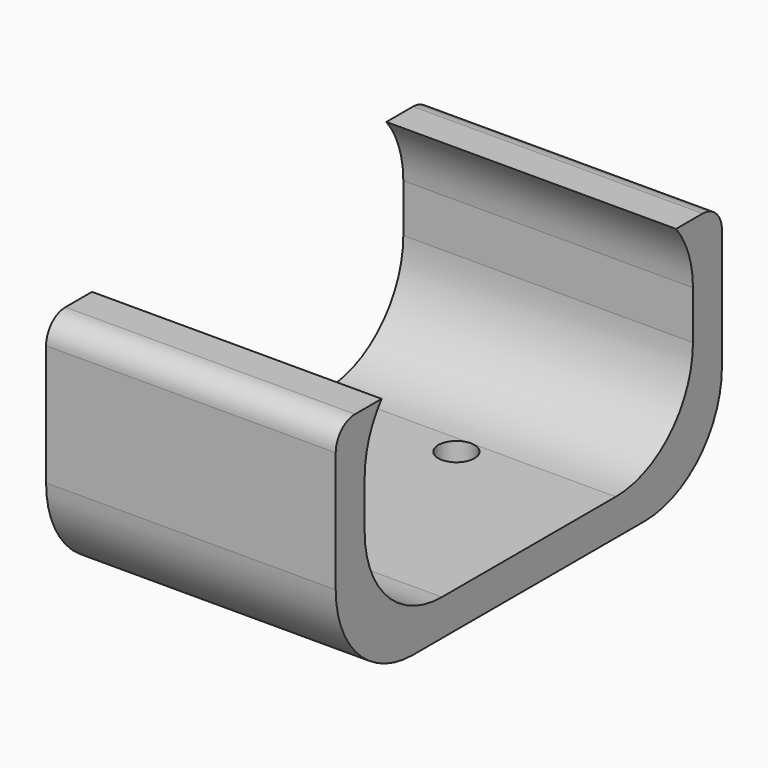
from build123d import *

# Parameters (mm, degrees)
F1_DEPTH = 24
F2_R     = 1.5
F3_DEPTH = 5


with BuildPart() as f1:
    # F0 (on Right) → F1 (new body)
    with BuildSketch(Plane.YZ):
        with BuildLine():
            ThreePointArc((0, 8), (2.343146, 2.343146), (8, 0))
            Line((8, 0), (32, 0))
            ThreePointArc((32, 0), (37.656854, 2.343146), (40, 8))
            Line((40, 8), (40, 18))
            ThreePointArc((40, 18), (39.414214, 19.414214), (38, 20))
            Line((38, 20), (35.244998, 20))
            ThreePointArc((35.244998, 20), (36.548509, 17.64953), (37, 15))
            Line((37, 15), (37, 11))
            ThreePointArc((37, 11), (34.656854, 5.343146), (29, 3))
            Line((29, 3), (11, 3))
            ThreePointArc((11, 3), (5.343146, 5.343146), (3, 11))
            Line((3, 11), (3, 15))
            ThreePointArc((3, 15), (3.451491, 17.64953), (4.755002, 20))
            Line((4.755002, 20), (2, 20))
            ThreePointArc((2, 20), (0.585786, 19.414214), (0, 18))
            Line((0, 18), (0, 8))
        make_face()
    extrude(amount=F1_DEPTH)

    # F2 (on Top) → F3 (cut)
    with BuildSketch(Plane.XY):
        with Locations((12, 12.5)):
            Circle(F2_R)
        with Locations((12, 27.5)):
            Circle(F2_R)
    extrude(amount=F3_DEPTH, mode=Mode.SUBTRACT)


solid = f1.part
